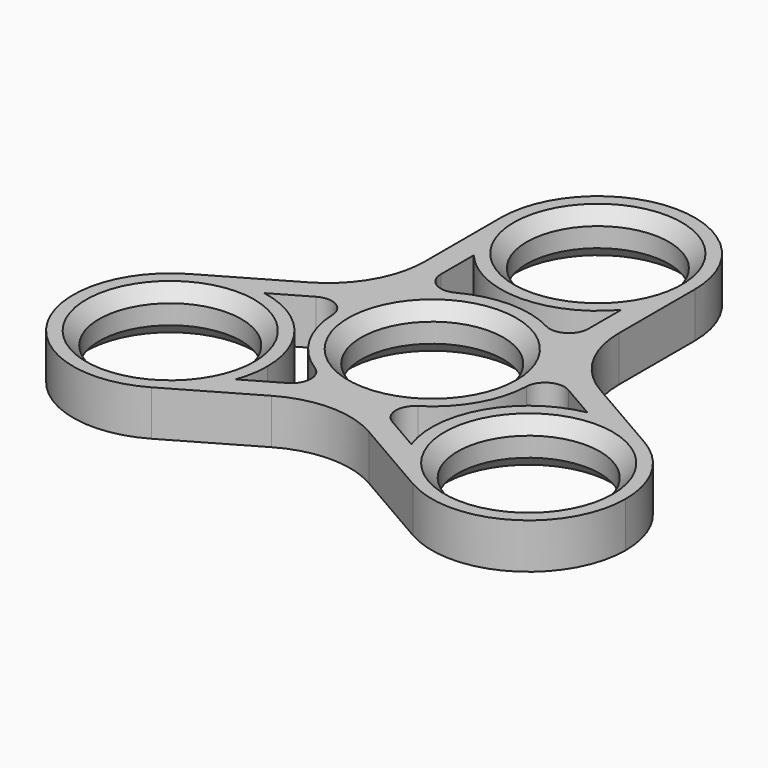
from build123d import *

# Parameters (mm, degrees)
F0_R     = 11
F1_DEPTH = 7
F2_SIZE  = 2
F3_R     = 15
F4_R     = 3


with BuildPart() as f1:
    # F0 (on Top) → F1 (new body)
    with BuildSketch(Plane.XY):
        with BuildLine():
            ThreePointArc((11.4100490265, 9.7370827876), (12.9903810568, 7.5), (14.1375855661, 5.0128509216))
            Line((14.1375855661, 5.0128509216), (15, 4.514935716))
            Line((15, 4.514935716), (15, 8.6602540378))
            Line((15, 8.6602540378), (11.4100490265, 10.7329131988))
            Line((11.4100490265, 10.7329131988), (11.4100490265, 9.7370827876))
        make_face()
        with BuildLine():
            Line((15, 8.6602540378), (15, 4.514935716))
            Line((15, 4.514935716), (24.9852763815, -1.2500662908))
            ThreePointArc((24.9852763815, -1.2500662908), (30.2560605014, -1.2171757859), (35.2128129211, -3.0096189432))
            Line((35.2128129211, -3.0096189432), (15, 8.6602540378))
        make_face()
        with BuildLine():
            Line((-15, 4.514935716), (-14.1375855661, 5.0128509216))
            ThreePointArc((-14.1375855661, 5.0128509216), (-12.9903810568, 7.5), (-11.4100490265, 9.7370827876))
            Line((-11.4100490265, 9.7370827876), (-11.4100490265, 10.7329131988))
            Line((-11.4100490265, 10.7329131988), (-15, 8.6602540378))
            Line((-15, 8.6602540378), (-15, 4.514935716))
        make_face()
        with BuildLine():
            Line((-24.9852763815, -1.2500662908), (-15, 4.514935716))
            Line((-15, 4.514935716), (-15, 8.6602540378))
            Line((-15, 8.6602540378), (-35.2128129211, -3.0096189432))
            ThreePointArc((-35.2128129211, -3.0096189432), (-30.2560605014, -1.2171757859), (-24.9852763815, -1.2500662908))
        make_face()
        with BuildLine():
            Line((3.5899509735, -15.2478489148), (2.7275365396, -14.7499337092))
            ThreePointArc((2.7275365396, -14.7499337092), (0, -15), (-2.7275365396, -14.7499337092))
            Line((-2.7275365396, -14.7499337092), (-3.5899509735, -15.2478489148))
            Line((-3.5899509735, -15.2478489148), (0, -17.3205080757))
            Line((0, -17.3205080757), (3.5899509735, -15.2478489148))
        make_face()
        with BuildLine():
            Line((13.575227355, -21.0128509216), (3.5899509735, -15.2478489148))
            Line((3.5899509735, -15.2478489148), (0, -17.3205080757))
            Line((0, -17.3205080757), (20.2128129211, -28.9903810568))
            ThreePointArc((20.2128129211, -28.9903810568), (16.1821354021, -25.5939291197), (13.575227355, -21.0128509216))
        make_face()
        with BuildLine():
            Line((11.4100490265, 10.7329131988), (15, 8.6602540378))
            Line((15, 8.6602540378), (15, 32))
            ThreePointArc((15, 32), (14.0739250992, 26.8111049056), (11.4100490265, 22.2629172124))
            Line((11.4100490265, 22.2629172124), (11.4100490265, 10.7329131988))
        make_face()
        with BuildLine():
            ThreePointArc((35.2128129211, -3.0096189432), (30.2560605014, -1.2171757859), (24.9852763815, -1.2500662908))
            ThreePointArc((24.9852763815, -1.2500662908), (14.7224318643, -8.5), (13.575227355, -21.0128509216))
            ThreePointArc((13.575227355, -21.0128509216), (16.1821354021, -25.5939291197), (20.2128129211, -28.9903810568))
            ThreePointArc((20.2128129211, -28.9903810568), (35.2128129211, -28.9903810568), (42.7128129211, -16))
            ThreePointArc((42.7128129211, -16), (40.7031939779, -8.5), (35.2128129211, -3.0096189432))
        make_face()
        with Locations((27.7128129211, -16)):
            Circle(F0_R, mode=Mode.SUBTRACT)
        with BuildLine():
            Line((0, -17.3205080757), (-3.5899509735, -15.2478489148))
            Line((-3.5899509735, -15.2478489148), (-13.575227355, -21.0128509216))
            ThreePointArc((-13.575227355, -21.0128509216), (-16.1821354021, -25.5939291197), (-20.2128129211, -28.9903810568))
            Line((-20.2128129211, -28.9903810568), (0, -17.3205080757))
        make_face()
        with BuildLine():
            Line((-15, 32), (-15, 8.6602540378))
            Line((-15, 8.6602540378), (-11.4100490265, 10.7329131988))
            Line((-11.4100490265, 10.7329131988), (-11.4100490265, 22.2629172124))
            ThreePointArc((-11.4100490265, 22.2629172124), (-14.0739250992, 26.8111049056), (-15, 32))
        make_face()
        with BuildLine():
            ThreePointArc((-12.7128129211, -16), (-16.1821354021, -6.4060708803), (-24.9852763815, -1.2500662908))
            ThreePointArc((-24.9852763815, -1.2500662908), (-30.2560605014, -1.2171757859), (-35.2128129211, -3.0096189432))
            ThreePointArc((-35.2128129211, -3.0096189432), (-40.7031939779, -23.5), (-20.2128129211, -28.9903810568))
            ThreePointArc((-20.2128129211, -28.9903810568), (-16.1821354021, -25.5939291197), (-13.575227355, -21.0128509216))
            ThreePointArc((-13.575227355, -21.0128509216), (-12.929988707, -18.5432475803), (-12.7128129211, -16))
        make_face()
        with Locations((-27.7128129211, -16)):
            Circle(F0_R, mode=Mode.SUBTRACT)
        with BuildLine():
            Line((11, 32), (15, 32))
            ThreePointArc((15, 32), (0, 47), (-15, 32))
            Line((-15, 32), (-11, 32))
            ThreePointArc((-11, 32), (0, 43), (11, 32))
        make_face()
        with BuildLine():
            ThreePointArc((11.4100490265, 22.2629172124), (14.0739250992, 26.8111049056), (15, 32))
            Line((15, 32), (11, 32))
            ThreePointArc((11, 32), (0, 21), (-11, 32))
            Line((-11, 32), (-15, 32))
            ThreePointArc((-15, 32), (-14.0739250992, 26.8111049056), (-11.4100490265, 22.2629172124))
            ThreePointArc((-11.4100490265, 22.2629172124), (0, 17), (11.4100490265, 22.2629172124))
        make_face()
        with BuildLine():
            ThreePointArc((-11, 0), (0, 11), (11, 0))
            Line((11, 0), (15, 0))
            ThreePointArc((15, 0), (14.7828242141, 2.5432475803), (14.1375855661, 5.0128509216))
            ThreePointArc((14.1375855661, 5.0128509216), (12.9903810568, 7.5), (11.4100490265, 9.7370827876))
            ThreePointArc((11.4100490265, 9.7370827876), (9.5939291197, 11.530677519), (7.5, 12.9903810568))
            ThreePointArc((7.5, 12.9903810568), (0, 15), (-7.5, 12.9903810568))
            ThreePointArc((-7.5, 12.9903810568), (-9.5939291197, 11.530677519), (-11.4100490265, 9.7370827876))
            ThreePointArc((-11.4100490265, 9.7370827876), (-12.9903810568, 7.5), (-14.1375855661, 5.0128509216))
            ThreePointArc((-14.1375855661, 5.0128509216), (-14.7828242141, 2.5432475803), (-15, 0))
            Line((-15, 0), (-11, 0))
        make_face()
        with BuildLine():
            Line((15, 0), (11, 0))
            ThreePointArc((11, 0), (0, -11), (-11, 0))
            Line((-11, 0), (-15, 0))
            ThreePointArc((-15, 0), (-12.9903810568, -7.5), (-7.5, -12.9903810568))
            ThreePointArc((-7.5, -12.9903810568), (-5.1888950944, -14.0739250992), (-2.7275365396, -14.7499337092))
            ThreePointArc((-2.7275365396, -14.7499337092), (0, -15), (2.7275365396, -14.7499337092))
            ThreePointArc((2.7275365396, -14.7499337092), (5.1888950944, -14.0739250992), (7.5, -12.9903810568))
            ThreePointArc((7.5, -12.9903810568), (12.9903810568, -7.5), (15, 0))
        make_face()
    extrude(amount=F1_DEPTH)

    # F2
    f2_edges = [f1.edges().sort_by_distance(p)[0] for p in [
        (-11, 0, 7),
        (11, 32, 7),
        (16.712813, -16, 7),
        (16.712813, -16, 0),
        (11, 32, 0),
        (-11, 0, 0),
        (-38.712813, -16, 0),
        (-38.712813, -16, 7),
    ]]
    chamfer(f2_edges, length=F2_SIZE)

    # F3
    f3_edges = [f1.edges().sort_by_distance(p)[0] for p in [
        (0, -17.320508, 3.5),
        (15, 8.660254, 3.5),
        (-15, 8.660254, 3.5),
    ]]
    fillet(f3_edges, radius=F3_R)

    # F4
    f4_edges = [f1.edges().sort_by_distance(p)[0] for p in [
        (-11.410049, 9.737083, 3.5),
        (11.410049, 9.737083, 3.5),
        (14.137586, 5.012851, 3.5),
        (-14.137586, 5.012851, 3.5),
        (2.727537, -14.749934, 3.5),
        (-2.727537, -14.749934, 3.5),
    ]]
    fillet(f4_edges, radius=F4_R)


solid = f1.part
